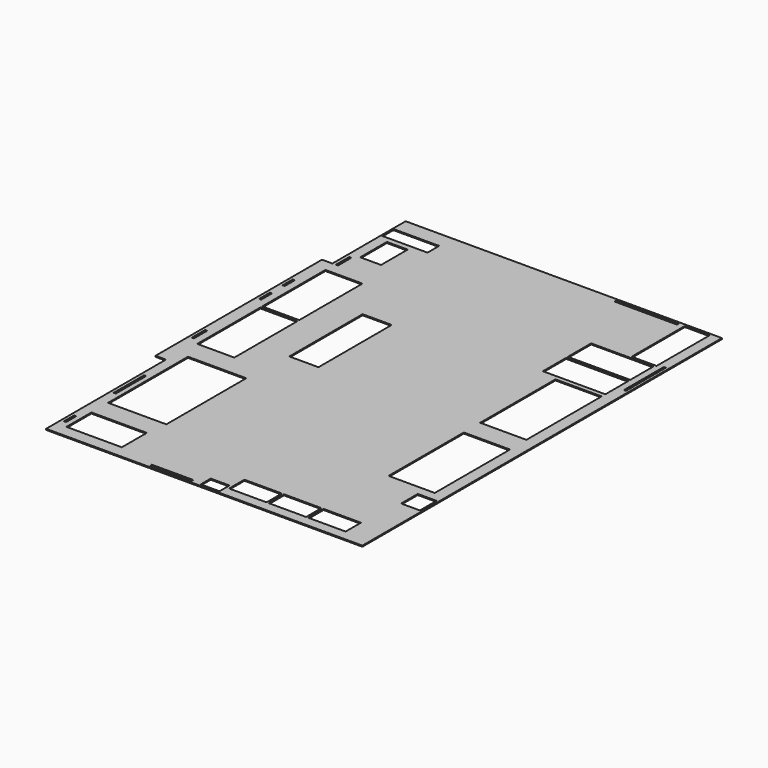
from build123d import *

# Parameters (mm, degrees)
F0_W     = 1330
F0_H     = 750
F0_W_2   = 1400
F0_H_2   = 2400
F0_W_3   = 900
F0_H_3   = 460
F0_W_4   = 1110
F0_H_4   = 2260
F0_W_5   = 890
F0_H_5   = 1900
F0_W_6   = 700
F0_H_6   = 2200
F0_W_7   = 500
F0_H_7   = 800
F0_W_8   = 1500
F0_H_8   = 700
F0_H_9   = 50
F0_W_9   = 600
F0_H_10  = 1600
F0_W_10  = 50
F0_H_11  = 300
F0_H_12  = 910
F0_W_11  = 1000
F0_H_13  = 400
F0_H_14  = 330
F0_H_15  = 1200
F1_DEPTH = 25


with BuildPart() as f1:
    # F0 (on Top) → F1 (new body)
    with BuildSketch(Plane.XY):
        Polygon((1326.473141, 5125.431383), (-5873.526859, 5125.431383), (-5873.526859, 4735.431383), (-4955.592155, 4735.431383), (-4955.592155, 4385.431383), (-5873.526859, 4385.431383), (-5873.526859, 2725.431383), (-6123.526859, 2725.431383), (-6123.526859, -1874.568617), (-5873.526859, -1874.568617), (-5873.526859, -5474.568617), (-2396.305084, -5474.568617), (-2396.305084, -5324.568617), (-1946.305084, -5324.568617), (-1946.305084, -5474.568617), (1326.473141, -5474.568617), (1326.473141, -3884.568617), (1026.473141, -3884.568617), (1026.473141, -3384.568617), (1326.473141, -3384.568617), align=None)
        with Locations((-5158.526859, -4999.568617)):
            Rectangle(F0_W, F0_H, mode=Mode.SUBTRACT)
        with Locations((-5123.526859, -2924.568617)):
            Rectangle(F0_W_2, F0_H_2, mode=Mode.SUBTRACT)
        with Locations((-1425.173283, -5194.568617)):
            Rectangle(F0_W_3, F0_H_3, mode=Mode.SUBTRACT)
        with Locations((-475.173283, -5194.568617)):
            Rectangle(F0_W_3, F0_H_3, mode=Mode.SUBTRACT)
        with Locations((474.826717, -5194.568617)):
            Rectangle(F0_W_3, F0_H_3, mode=Mode.SUBTRACT)
        with Locations((695.623219, -2025.164721)):
            Rectangle(F0_W_4, F0_H_4, mode=Mode.SUBTRACT)
        with Locations((-5567.845945, -259.231861)):
            Rectangle(F0_W_5, F0_H_5, mode=Mode.SUBTRACT)
        with Locations((-5567.845945, 1690.768139)):
            Rectangle(F0_W_5, F0_H_5, mode=Mode.SUBTRACT)
        with Locations((-3994.903898, 571.604729)):
            Rectangle(F0_W_6, F0_H_6, mode=Mode.SUBTRACT)
        with Locations((-5573.526859, 3849.259043)):
            Rectangle(F0_W_7, F0_H_7, mode=Mode.SUBTRACT)
        with Locations((689.861877, 734.835279)):
            Rectangle(F0_W_4, F0_H_4, mode=Mode.SUBTRACT)
        with Locations((495.773822, 2325.431383)):
            Rectangle(F0_W_8, F0_H_8, mode=Mode.SUBTRACT)
        with Locations((494.806796, 3075.431383)):
            Rectangle(F0_W_8, F0_H_8, mode=Mode.SUBTRACT)
        with Locations((-223.526859, 5050.431383)):
            Rectangle(F0_W_8, F0_H_9, mode=Mode.SUBTRACT)
        with Locations((976.473141, 4275.431383)):
            Rectangle(F0_W_9, F0_H_10, mode=Mode.SUBTRACT)
        Polygon((-5873.526859, 4735.431383), (-5873.526859, 5125.431383), (-6073.526859, 5125.431383), (-6073.526859, 2925.431383), (-6323.526859, 2925.431383), (-6323.526859, -2074.568617), (-6073.526859, -2074.568617), (-6073.526859, -5674.568617), (1526.473141, -5674.568617), (1526.473141, 5125.431383), (1326.473141, 5125.431383), (1326.473141, -3384.568617), (1476.473141, -3384.568617), (1476.473141, -3884.568617), (1326.473141, -3884.568617), (1326.473141, -5474.568617), (-1946.305084, -5474.568617), (-1946.305084, -5624.568617), (-2396.305084, -5624.568617), (-2396.305084, -5474.568617), (-5873.526859, -5474.568617), (-5873.526859, -1874.568617), (-6123.526859, -1874.568617), (-6123.526859, 2725.431383), (-5873.526859, 2725.431383), (-5873.526859, 4385.431383), (-6055.592155, 4385.431383), (-6055.592155, 4735.431383), align=None)
        with Locations((-5976.472282, -5074.568617)):
            Rectangle(F0_W_10, F0_H_11, mode=Mode.SUBTRACT)
        with Locations((-5971.216583, -3284.568617)):
            Rectangle(F0_W_10, F0_H_12, mode=Mode.SUBTRACT)
        with Locations((-3112.686396, -5599.568617)):
            Rectangle(F0_W_11, F0_H_9, mode=Mode.SUBTRACT)
        with Locations((-6226.200008, -874.568617)):
            Rectangle(F0_W_10, F0_H_13, mode=Mode.SUBTRACT)
        with Locations((-6224.552631, 1105.431383)):
            Rectangle(F0_W_10, F0_H_14, mode=Mode.SUBTRACT)
        with Locations((-6225.375414, 1802.431383)):
            Rectangle(F0_W_10, F0_H_11, mode=Mode.SUBTRACT)
        with Locations((-5965.773582, 3128.210723)):
            Rectangle(F0_W_10, F0_H_13, mode=Mode.SUBTRACT)
        with Locations((1434.623981, 2925.431383)):
            Rectangle(F0_W_10, F0_H_15, mode=Mode.SUBTRACT)
    extrude(amount=F1_DEPTH)


solid = f1.part
